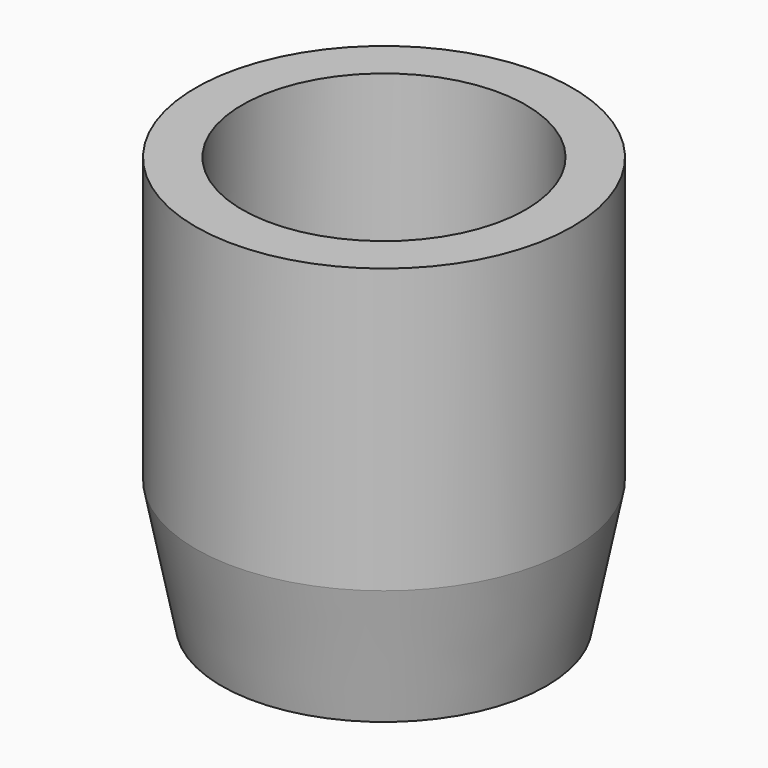
from build123d import *

# Parameters (mm, degrees)
F0_R     = 3.65
F0_R_2   = 2.75
F0_R_3   = 1.95
F1_DEPTH = 3
F2_DEPTH = 5
F3_SIZE2 = 2.5
F3_SIZE  = 0.5
F4_DEPTH = 0.2


with BuildPart() as f1:
    # F0 (on Top) → F1 (new body)
    with BuildSketch(Plane.XY):
        with Locations((-17.504408526, 0)):
            Circle(F0_R)
        with Locations((-17.504408526, 0)):
            Circle(F0_R_2, mode=Mode.SUBTRACT)
        with Locations((-17.504408526, 0)):
            Circle(F0_R_2)
        with Locations((-17.504408526, 0)):
            Circle(F0_R_3, mode=Mode.SUBTRACT)
    extrude(amount=-F1_DEPTH)

    # F0 (on Top) → F2 (join)
    with BuildSketch(Plane.XY):
        with Locations((-17.504408526, 0)):
            Circle(F0_R)
        with Locations((-17.504408526, 0)):
            Circle(F0_R_2, mode=Mode.SUBTRACT)
    extrude(amount=F2_DEPTH)

    # F3
    f3_edges = [f1.edges().sort_by_distance(p)[0] for p in [
        (-21.154409, 0, -3),
    ]]
    f3_side = f1.faces().sort_by_distance((-21.051171, 0, -3))[0]
    chamfer(f3_edges, length=F3_SIZE, length2=F3_SIZE2, reference=f3_side)

    # F0 (on Top) → F4 (join)
    with BuildSketch(Plane.XY):
        with Locations((-17.504408526, 0)):
            Circle(F0_R_2)
        with Locations((-17.504408526, 0)):
            Circle(F0_R_3, mode=Mode.SUBTRACT)
        with Locations((-17.504408526, 0)):
            Circle(F0_R_3)
    extrude(amount=F4_DEPTH)


solid = f1.part
